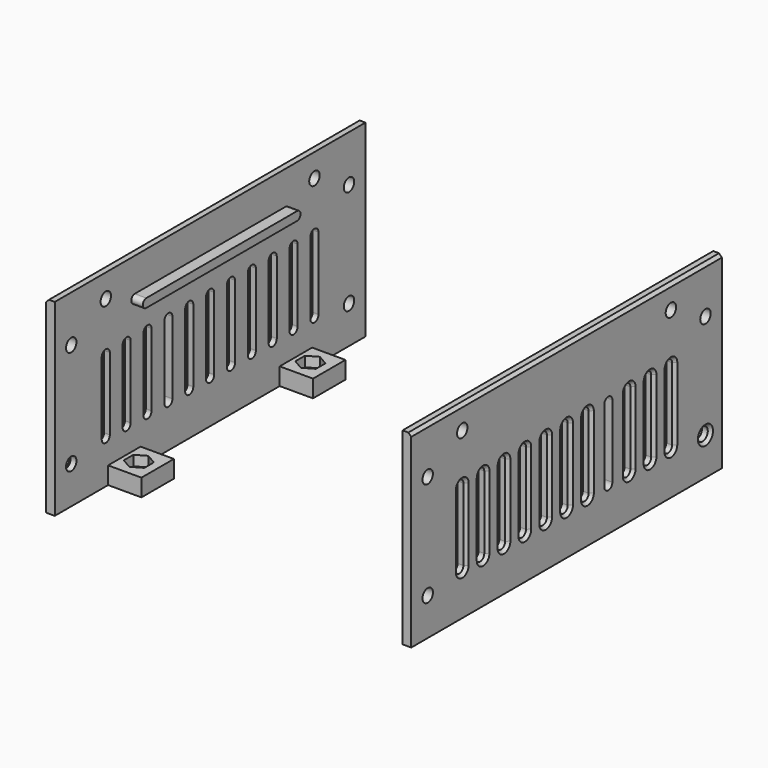
from build123d import *

# Parameters (mm, degrees)
SKETCH001_W         = 3
SKETCH001_H         = 65
PAD001_DEPTH        = 67
SKETCH002_W         = 11.5
SKETCH002_H         = 14
SKETCH002_R         = 2.4
PAD002_DEPTH        = 6
POCKET_DEPTH        = 3.5
SKETCH014_R         = 2.25
POCKET006_DEPTH     = 313.775122
SKETCH016_R         = 2.25
POCKET007_DEPTH     = 3.001
POCKET008_DEPTH     = 14.501
LINEARPATTERN_COUNT = 11
LINEARPATTERN_PITCH = 9
CHAMFER_SIZE        = 1
CHAMFER005_SIZE     = 1
PAD013_DEPTH        = 4
ARRAY_COUNT         = 2


with BuildPart() as sideplate_array:
    # Sketch001 → Pad001 (new body, symmetric)
    with BuildSketch(Plane.XZ):
        with Locations((-61.5, 35.55)):
            Rectangle(SKETCH001_W, SKETCH001_H)
    extrude(amount=PAD001_DEPTH, both=True)

    # Sketch002 (on Face1 of Pad001) → Pad002 (join)
    with BuildSketch(Plane(origin=(0, 0, 3.05), x_dir=(1, 0, 0), z_dir=(0, 0, -1))):
        with Locations((-54.25, 37)):
            Rectangle(SKETCH002_W, SKETCH002_H)
        with Locations((-55, 37)):
            Circle(SKETCH002_R, mode=Mode.SUBTRACT)
    pad002 = extrude(amount=-PAD002_DEPTH)

    # Mirrored: Pad002 across XZ
    add(pad002.mirror(Plane.XZ))

    # Sketch003 (on Face12 of Mirrored) → Pocket (cut)
    with BuildSketch(Plane(origin=(0, 0, 9.05), x_dir=(-1, 0, 0), z_dir=(0, 0, 1))):
        Polygon((58.55, 34.950407), (58.55, 39.049593), (55, 41.099187), (51.45, 39.049593), (51.45, 34.950407), (55, 32.900813), align=None)
    pocket = extrude(amount=-POCKET_DEPTH, mode=Mode.SUBTRACT)

    # Mirrored001: Pocket across XZ
    add(pocket.mirror(Plane.XZ), mode=Mode.SUBTRACT)

    # Sketch014 (on Face5 of Mirrored001) → Pocket006 (cut, through all)
    with BuildSketch(Plane(origin=(-63, 0, 0), x_dir=(0, 0, -1), z_dir=(-1, 0, 0))):
        with Locations((-16, 59.9)):
            Circle(SKETCH014_R)
        with Locations((-52.05, 59.9)):
            Circle(SKETCH014_R)
    pocket006 = extrude(amount=-POCKET006_DEPTH, mode=Mode.SUBTRACT)

    # Mirrored003: Pocket006 across XZ
    add(pocket006.mirror(Plane.XZ), mode=Mode.SUBTRACT)

    # Sketch016 (on Face2 of Mirrored003) → Pocket007 (cut, through all)
    with BuildSketch(Plane(origin=(-60, 0, 0), x_dir=(0, 0, 1), z_dir=(1, 0, 0))):
        with Locations((60.05, 45)):
            Circle(SKETCH016_R)
        with Locations((60.05, -45)):
            Circle(SKETCH016_R)
    extrude(amount=-POCKET007_DEPTH, mode=Mode.SUBTRACT)

    # Sketch017 (on Face5 of Pocket007) → Pocket008 (cut, through all)
    with BuildSketch(Plane(origin=(-63, 0, 0), x_dir=(0, 0, -1), z_dir=(-1, 0, 0))):
        with BuildLine():
            ThreePointArc((-43, 46.75), (-44.75, 45), (-43, 43.25))
            Line((-43, 43.25), (-18, 43.25))
            ThreePointArc((-18, 43.25), (-16.25, 45), (-18, 46.75))
            Line((-43, 46.75), (-18, 46.75))
        make_face()
    pocket008 = extrude(amount=-POCKET008_DEPTH, mode=Mode.SUBTRACT)

    # LinearPattern: Pocket008 ×11
    with Locations(*[(0, i * LINEARPATTERN_PITCH, 0) for i in range(1, LINEARPATTERN_COUNT)]):
        add(pocket008, mode=Mode.SUBTRACT)

    # Chamfer
    chamfer_edges = [sideplate_array.edges().sort_by_distance(p)[0] for p in [
        (-63, -34.25, 30.5),
        (-63, -45, 16.25),
        (-63, 1.75, 30.5),
        (-63, -7.25, 30.5),
        (-63, 19.75, 30.5),
        (-63, 10.75, 30.5),
        (-63, 28.75, 30.5),
        (-63, 37.75, 30.5),
        (-63, 45, 16.25),
        (-63, -27, 44.75),
        (-63, -59.9, 18.25),
    ]]
    chamfer(chamfer_edges, length=CHAMFER_SIZE)

    # Chamfer005
    chamfer005_edges = [sideplate_array.edges().sort_by_distance(p)[0] for p in [
        (-63, 0, 68.05),
    ]]
    chamfer(chamfer005_edges, length=CHAMFER005_SIZE)

    # Sketch032 (on Face57 of Chamfer005) → Pad013 (join)
    with BuildSketch(Plane(origin=(-60, 0, 0), x_dir=(0, 0, 1), z_dir=(1, 0, 0))):
        with BuildLine():
            ThreePointArc((56.5, 32.5), (55, 34), (53.5, 32.5))
            Line((53.5, 32.5), (53.5, -32.5))
            ThreePointArc((53.5, -32.5), (55, -34), (56.5, -32.5))
            Line((56.5, 32.5), (56.5, -32.5))
        make_face()
    extrude(amount=PAD013_DEPTH)


with BuildPart() as array_copy1:
    # Array: instance of Sideplate array
    add(sideplate_array.part.rotate(Axis((0, 0, 0), (0, 0, 1)), 1 * 360 / ARRAY_COUNT))


solid = Compound([sideplate_array.part, array_copy1.part])
